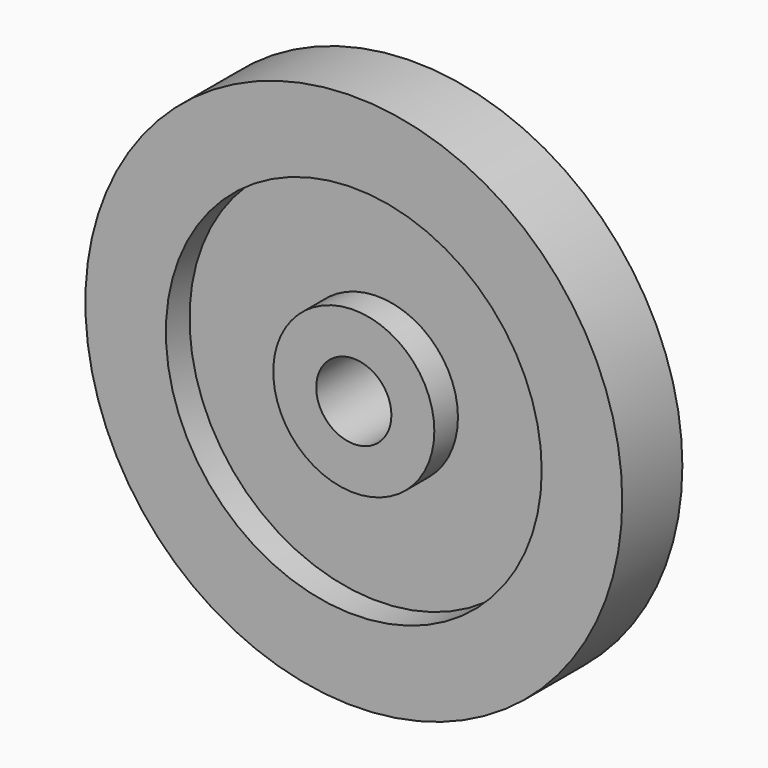
from build123d import *

# Parameters (mm, degrees)
F0_R     = 35
F0_R_2   = 15
F1_DEPTH = 1.5
F1_TAPER = -3
F0_R_3   = 50
F2_DEPTH = 7
F0_R_4   = 7
F3_DEPTH = 7


with BuildPart() as f1:
    # F0 (on Front) → F1 (new body, symmetric)
    with BuildSketch(Plane.XZ):
        Circle(F0_R)
        Circle(F0_R_2, mode=Mode.SUBTRACT)
    extrude(amount=F1_DEPTH, both=True, taper=F1_TAPER)

    # F0 (on Front) → F2 (join, symmetric)
    with BuildSketch(Plane.XZ):
        Circle(F0_R_3)
        Circle(F0_R, mode=Mode.SUBTRACT)
    extrude(amount=F2_DEPTH, both=True)

    # F0 (on Front) → F3 (join, symmetric)
    with BuildSketch(Plane.XZ):
        Circle(F0_R_2)
        Circle(F0_R_4, mode=Mode.SUBTRACT)
    extrude(amount=F3_DEPTH, both=True)


solid = f1.part
